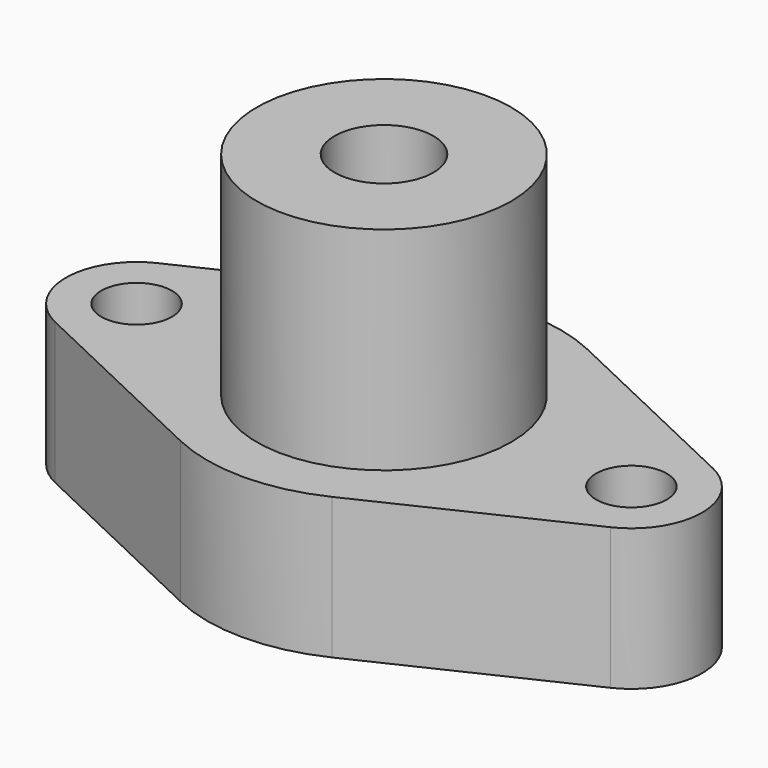
from build123d import *

# Parameters (mm, degrees)
F1_DEPTH = 20
F2_R     = 18
F3_DEPTH = 30
F4_D     = 10
F6_D     = 14
F6_DEPTH = 31
F6_TIP   = 4.2060243332


with BuildPart() as f1:
    # F0 (on Top) → F1 (new body)
    with BuildSketch(Plane.XY):
        with BuildLine():
            Line((-10.7142857143, 22.5876975726), (-39.2857142857, 9.0350790291))
            ThreePointArc((-39.2857142857, 9.0350790291), (-45, 0), (-39.2857142857, -9.0350790291))
            Line((-39.2857142857, -9.0350790291), (-10.7142857143, -22.5876975726))
            ThreePointArc((-10.7142857143, -22.5876975726), (0, -25), (10.7142857143, -22.5876975726))
            Line((10.7142857143, -22.5876975726), (39.2857142857, -9.0350790291))
            ThreePointArc((39.2857142857, -9.0350790291), (45, 0), (39.2857142857, 9.0350790291))
            Line((39.2857142857, 9.0350790291), (10.7142857143, 22.5876975726))
            ThreePointArc((10.7142857143, 22.5876975726), (0, 25), (-10.7142857143, 22.5876975726))
        make_face()
    extrude(amount=F1_DEPTH)

    # F2 (on face) → F3 (join)
    with BuildSketch(Plane.XY.offset(20)):
        Circle(F2_R)
    extrude(amount=F3_DEPTH)

    # F4 (through all)
    with Locations(Plane.XY.offset(20)):
        with Locations((-35, 0), (35, 0)):
            Hole(F4_D / 2)

    # F6
    with Locations(Plane.XY.offset(50)):
        with Locations((0, 0)):
            Hole(F6_D / 2, depth=F6_DEPTH)
            with Locations((0, 0, -(F6_DEPTH + F6_TIP / 2))):  # 118° drill point
                Cone(0, F6_D / 2, F6_TIP, mode=Mode.SUBTRACT)


solid = f1.part
